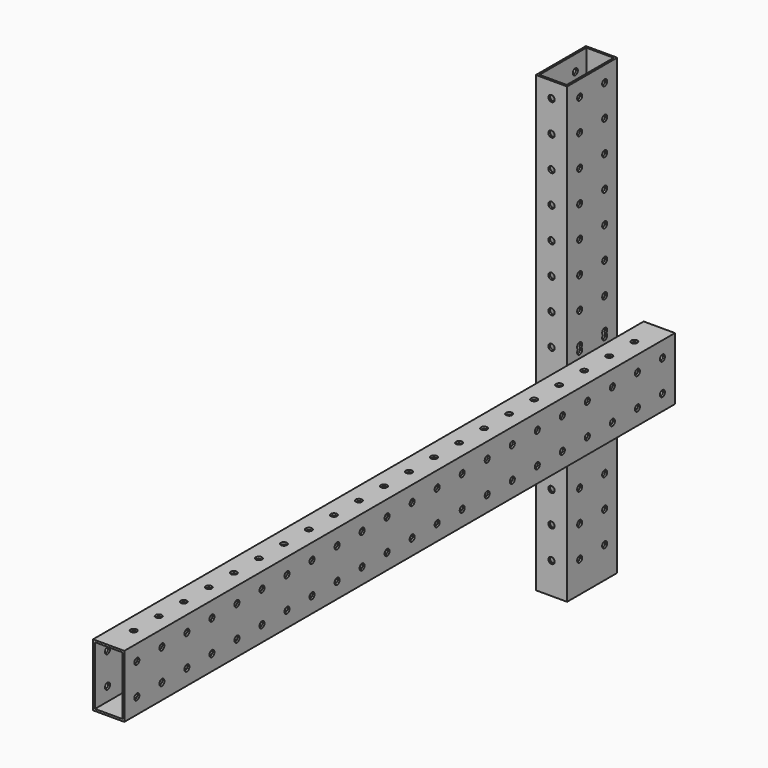
from build123d import *

# Parameters (mm, degrees)
F0_W      = 25.4
F0_H      = 368.3
F1_DEPTH  = 50.8
F2_W      = 25.4
F2_H      = 50.8
F2_W_2    = 22.225
F2_H_2    = 47.625
F3_DEPTH  = 558.8
F6_D      = 5.1054
F5_R      = 2.5527
F7_DEPTH  = 50.8
F8_W      = 22.1996
F8_H      = 47.6123
F9_DEPTH  = 381
F10_R     = 2.5527
F11_DEPTH = 25.4
F13_D     = 5.1054
F13_2_D   = 5.1054


with BuildPart() as f1:
    # F0 (on Front) → F1 (new body)
    with BuildSketch(Plane.XZ):
        with Locations((-46.896126, 22.824288)):
            Rectangle(F0_W, F0_H)
    extrude(amount=F1_DEPTH)

    # F5 (on face) → F7 (cut)
    with BuildSketch(Plane.XZ.offset(50.8)):
        with Locations((-46.896126, 194.274288)):
            Circle(F5_R)
        with Locations((-46.896126, 168.874288)):
            Circle(F5_R)
        with Locations((-46.896126, 143.474288)):
            Circle(F5_R)
        with Locations((-46.896126, 118.074288)):
            Circle(F5_R)
        with Locations((-46.896126, 92.674288)):
            Circle(F5_R)
        with Locations((-46.896126, 67.274288)):
            Circle(F5_R)
        with Locations((-46.896126, 41.874288)):
            Circle(F5_R)
        with Locations((-46.896126, 16.474288)):
            Circle(F5_R)
        with Locations((-46.896126, -8.925712)):
            Circle(F5_R)
        with Locations((-46.896126, -34.325712)):
            Circle(F5_R)
        with Locations((-46.896126, -59.725712)):
            Circle(F5_R)
        with Locations((-46.896126, -85.125712)):
            Circle(F5_R)
        with Locations((-46.896126, -110.525712)):
            Circle(F5_R)
        with Locations((-46.896126, -135.925712)):
            Circle(F5_R)
    extrude(amount=-F7_DEPTH, mode=Mode.SUBTRACT)

    # F8 (on face) → F9 (cut)
    with BuildSketch(Plane.XY.offset(206.974288)):
        with Locations((-46.896126, -25.39365)):
            Rectangle(F8_W, F8_H)
    extrude(amount=-F9_DEPTH, mode=Mode.SUBTRACT)

    # F10 (on face) → F11 (cut)
    with BuildSketch(Plane(origin=(-59.596126, 0, 0), x_dir=(0, -1, 0), z_dir=(-1, 0, 0))):
        with Locations((12.7, 194.274288)):
            Circle(F10_R)
        with Locations((12.7, 168.874288)):
            Circle(F10_R)
        with Locations((12.7, 143.474288)):
            Circle(F10_R)
        with Locations((12.7, 118.074288)):
            Circle(F10_R)
        with Locations((12.7, 92.674288)):
            Circle(F10_R)
        with Locations((12.7, 67.274288)):
            Circle(F10_R)
        with Locations((12.7, 41.874288)):
            Circle(F10_R)
        with Locations((12.7, 16.474288)):
            Circle(F10_R)
        with Locations((12.7, -8.925712)):
            Circle(F10_R)
        with Locations((12.7, -34.325712)):
            Circle(F10_R)
        with Locations((12.7, -59.725712)):
            Circle(F10_R)
        with Locations((12.7, -85.125712)):
            Circle(F10_R)
        with Locations((12.7, -110.525712)):
            Circle(F10_R)
        with Locations((12.7, -135.925712)):
            Circle(F10_R)
        with Locations((38.1, 194.274288)):
            Circle(F10_R)
        with Locations((38.1, 168.874288)):
            Circle(F10_R)
        with Locations((38.1, 143.474288)):
            Circle(F10_R)
        with Locations((38.1, 118.074288)):
            Circle(F10_R)
        with Locations((38.1, 92.674288)):
            Circle(F10_R)
        with Locations((38.1, 67.274288)):
            Circle(F10_R)
        with Locations((38.1, 41.874288)):
            Circle(F10_R)
        with Locations((38.1, 16.474288)):
            Circle(F10_R)
        with Locations((38.1, -8.925712)):
            Circle(F10_R)
        with Locations((38.1, -34.325712)):
            Circle(F10_R)
        with Locations((38.1, -59.725712)):
            Circle(F10_R)
        with Locations((38.1, -85.125712)):
            Circle(F10_R)
        with Locations((38.1, -110.525712)):
            Circle(F10_R)
        with Locations((38.1, -135.925712)):
            Circle(F10_R)
    extrude(amount=-F11_DEPTH, mode=Mode.SUBTRACT)

    # F13 (through all)
    with Locations(Plane.YZ.offset(12.7)):
        with Locations((-469.9, 12.7), (-419.1, -12.7), (-495.3, 12.7), (-520.7, -12.7), (-38.1, 12.7), (-241.3, 12.7), (-495.3, -12.7), (-444.5, 12.7), (-469.9, -12.7), (-393.7, -12.7), (-393.7, 12.7), (-546.1, 12.7), (-139.7, -12.7), (-342.9, -12.7), (-520.7, 12.7), (-546.1, -12.7), (-190.5, -12.7), (-88.9, 12.7), (-292.1, 12.7), (-419.1, 12.7), (-444.5, -12.7), (-63.5, -12.7), (-266.7, -12.7), (-139.7, 12.7), (-342.9, 12.7), (-63.5, 12.7), (-266.7, 12.7), (-165.1, -12.7), (-368.3, -12.7), (-12.7, 12.7), (-215.9, 12.7), (-114.3, -12.7), (-190.5, 12.7), (-317.5, -12.7), (-88.9, -12.7), (-292.1, -12.7), (-38.1, -12.7), (-241.3, -12.7), (-165.1, 12.7), (-368.3, 12.7), (-215.9, -12.7), (-114.3, 12.7), (-317.5, 12.7), (-12.7, -12.7)):
            Hole(F13_D / 2)


with BuildPart() as f3:
    # F2 (on Front) → F3 (new body)
    with BuildSketch(Plane.XZ):
        Rectangle(F2_W, F2_H)
        Rectangle(F2_W_2, F2_H_2, mode=Mode.SUBTRACT)
    extrude(amount=F3_DEPTH)

    # F6 (through all)
    with Locations(Plane.XY.offset(25.4)):
        with Locations((0, -533.4), (0, -508), (0, -482.6), (0, -457.2), (0, -431.8), (0, -406.4), (0, -381), (0, -355.6), (0, -254), (0, -304.8), (0, -279.4), (0, -228.6), (0, -203.2), (0, -177.8), (0, -152.4), (0, -101.6), (0, -127), (0, -50.8), (0, -76.2), (0, -25.4), (0, -330.2)):
            Hole(F6_D / 2)

    # F13#2 (through all)
    with Locations(Plane.YZ.offset(12.7)):
        with Locations((-469.9, 12.7), (-419.1, -12.7), (-495.3, 12.7), (-520.7, -12.7), (-38.1, 12.7), (-241.3, 12.7), (-495.3, -12.7), (-444.5, 12.7), (-469.9, -12.7), (-393.7, -12.7), (-393.7, 12.7), (-546.1, 12.7), (-139.7, -12.7), (-342.9, -12.7), (-520.7, 12.7), (-546.1, -12.7), (-190.5, -12.7), (-88.9, 12.7), (-292.1, 12.7), (-419.1, 12.7), (-444.5, -12.7), (-63.5, -12.7), (-266.7, -12.7), (-139.7, 12.7), (-342.9, 12.7), (-63.5, 12.7), (-266.7, 12.7), (-165.1, -12.7), (-368.3, -12.7), (-12.7, 12.7), (-215.9, 12.7), (-114.3, -12.7), (-190.5, 12.7), (-317.5, -12.7), (-88.9, -12.7), (-292.1, -12.7), (-38.1, -12.7), (-241.3, -12.7), (-165.1, 12.7), (-368.3, 12.7), (-215.9, -12.7), (-114.3, 12.7), (-317.5, 12.7), (-12.7, -12.7)):
            Hole(F13_2_D / 2)


solid = Compound([f1.part, f3.part])
